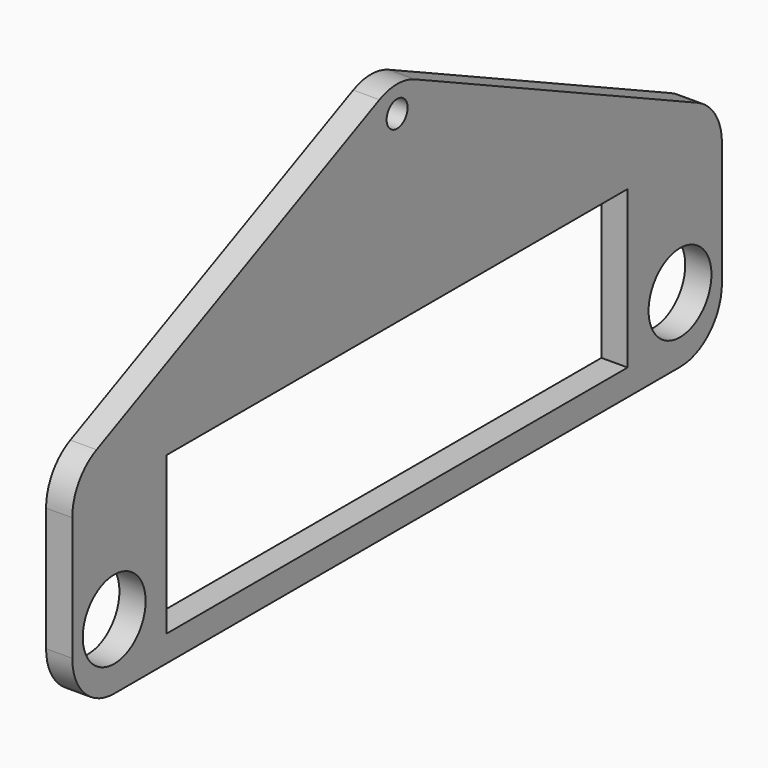
from build123d import *

# Parameters (mm, degrees)
F0_R     = 9.525
F0_W     = 139.7
F0_H     = 38.1
F0_R_2   = 3.175
F1_DEPTH = 6.35


with BuildPart() as f1:
    # F0 (on Right) → F1 (new body)
    with BuildSketch(Plane.YZ):
        with BuildLine():
            Line((-85.725, -25.4), (85.725, -25.4))
            ThreePointArc((85.725, -25.4), (94.705256, -21.680256), (98.425, -12.7))
            Line((98.425, -12.7), (98.425, 17.298685))
            ThreePointArc((98.425, 17.298685), (96.432049, 24.128699), (91.078686, 28.81511))
            Line((91.078686, 28.81511), (5.353686, 68.666425))
            ThreePointArc((5.353686, 68.666425), (0, 69.85), (-5.353686, 68.666425))
            Line((-5.353686, 68.666425), (-91.078686, 28.81511))
            ThreePointArc((-91.078686, 28.81511), (-96.432049, 24.128699), (-98.425, 17.298685))
            Line((-98.425, 17.298685), (-98.425, -12.7))
            ThreePointArc((-98.425, -12.7), (-94.705256, -21.680256), (-85.725, -25.4))
        make_face()
        with Locations((-85.725, -9.525)):
            Circle(F0_R, mode=Mode.SUBTRACT)
        with Locations((85.725, -9.525)):
            Circle(F0_R, mode=Mode.SUBTRACT)
        Rectangle(F0_W, F0_H, mode=Mode.SUBTRACT)
        with Locations((0, 63.5)):
            Circle(F0_R_2, mode=Mode.SUBTRACT)
    extrude(amount=F1_DEPTH)


solid = f1.part
